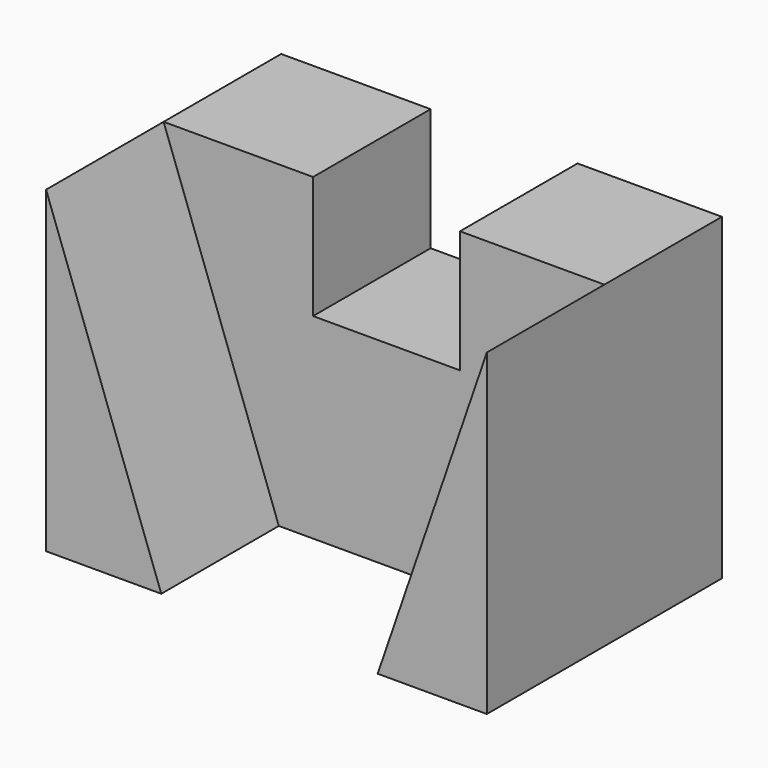
from build123d import *

# Parameters (mm, degrees)
F0_W     = 900
F0_H     = 650
F1_DEPTH = 300
F3_DEPTH = 300
F4_W     = 300
F4_H     = 250
F5_DEPTH = 300.001


with BuildPart() as f1:
    # F0 (on Front) → F1 (new body)
    with BuildSketch(Plane.XZ):
        Rectangle(F0_W, F0_H)
    extrude(amount=F1_DEPTH)

    # F2 (on face) → F3 (join)
    with BuildSketch(Plane.XZ.offset(300)):
        Polygon((450, -325), (450, 325), (227.090806, -325), align=None)
        Polygon((-214.815646, -325), (-450, 325), (-450, -325), align=None)
    extrude(amount=F3_DEPTH)

    # F4 (on face) → F5 (cut, through all)
    with BuildSketch(Plane.XZ.offset(300)):
        with Locations((5.15289, 200)):
            Rectangle(F4_W, F4_H)
    extrude(amount=-F5_DEPTH, mode=Mode.SUBTRACT)


solid = f1.part
